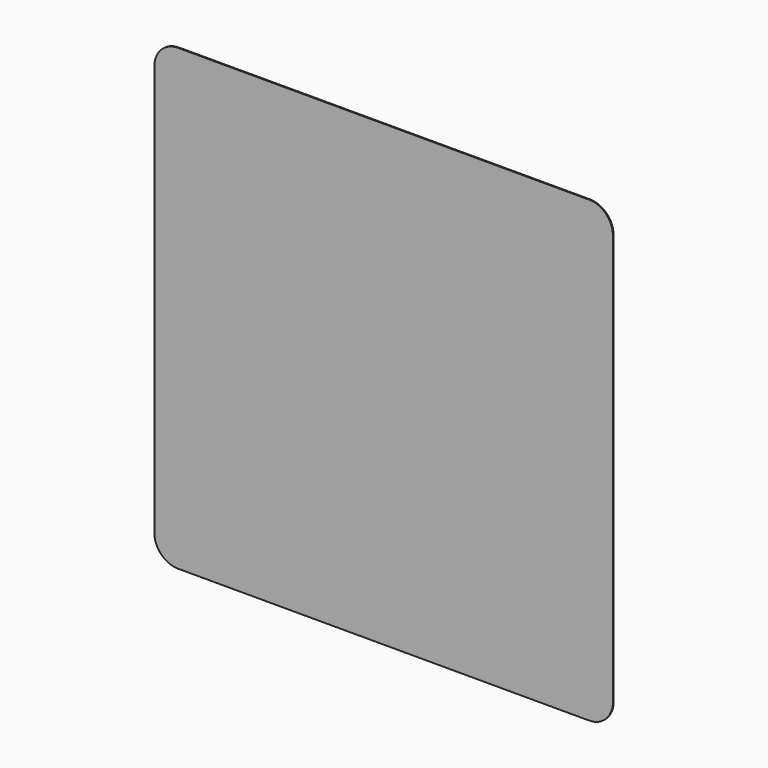
from build123d import *

# Parameters (mm, degrees)
F1_DEPTH = 2


with BuildPart() as f1:
    # F0 (on Front) → F1 (new body)
    with BuildSketch(Plane.XZ):
        with BuildLine():
            Line((-501.9999983907, 450), (-501.9999983907, -450))
            ThreePointArc((-501.9999983907, -450), (-486.7695514837, -486.7695514837), (-450, -501.9999983907))
            Line((-450, -501.9999983907), (450, -501.9999983907))
            ThreePointArc((450, -501.9999983907), (486.7695514837, -486.7695514837), (501.9999983907, -450))
            Line((501.9999983907, -450), (501.9999983907, 450))
            ThreePointArc((501.9999983907, 450), (486.7695514837, 486.7695514837), (450, 501.9999983907))
            Line((450, 501.9999983907), (-450, 501.9999983907))
            ThreePointArc((-450, 501.9999983907), (-486.7695514837, 486.7695514837), (-501.9999983907, 450))
        make_face()
        with BuildLine():
            ThreePointArc((-500, 450), (-485.3553390593, 485.3553390593), (-450, 500))
            Line((-450, 500), (450, 500))
            ThreePointArc((450, 500), (485.3553390593, 485.3553390593), (500, 450))
            Line((500, 450), (500, -450))
            ThreePointArc((500, -450), (485.3553390593, -485.3553390593), (450, -500))
            Line((450, -500), (-450, -500))
            ThreePointArc((-450, -500), (-485.3553390593, -485.3553390593), (-500, -450))
            Line((-500, -450), (-500, 450))
        make_face(mode=Mode.SUBTRACT)
        with BuildLine():
            Line((450, 500), (-450, 500))
            ThreePointArc((-450, 500), (-485.3553390593, 485.3553390593), (-500, 450))
            Line((-500, 450), (-500, -450))
            ThreePointArc((-500, -450), (-485.3553390593, -485.3553390593), (-450, -500))
            Line((-450, -500), (450, -500))
            ThreePointArc((450, -500), (485.3553390593, -485.3553390593), (500, -450))
            Line((500, -450), (500, 450))
            ThreePointArc((500, 450), (485.3553390593, 485.3553390593), (450, 500))
        make_face()
    extrude(amount=F1_DEPTH)


solid = f1.part
